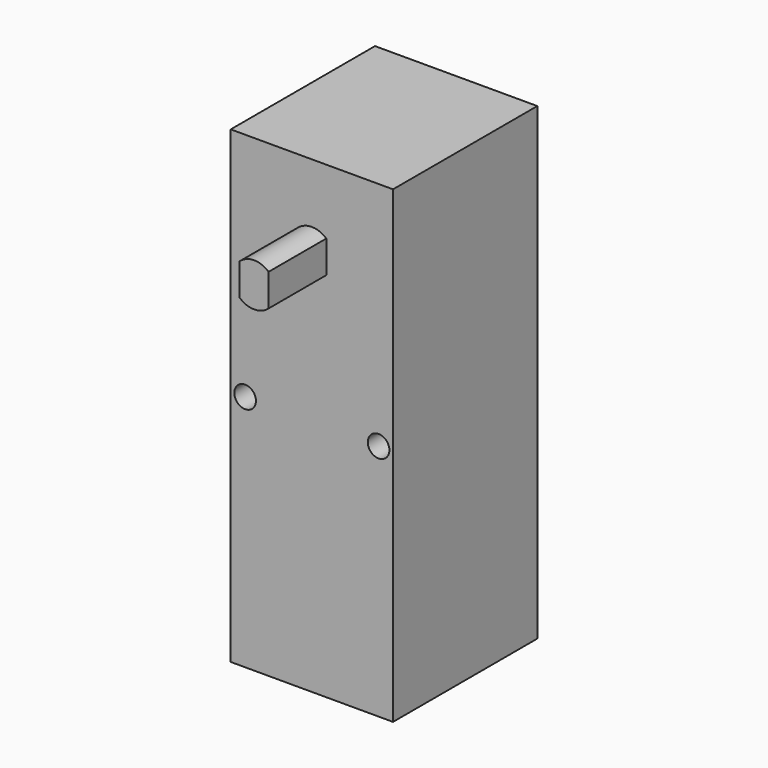
from build123d import *

# Parameters (mm, degrees)
F0_W     = 22.5
F0_H     = 65
F0_R     = 1.5
F1_DEPTH = 25
F3_DEPTH = 10


with BuildPart() as f1:
    # F0 (on Front) → F1 (new body)
    with BuildSketch(Plane.XZ):
        Rectangle(F0_W, F0_H)
        with Locations((-9.25, 0.5)):
            Circle(F0_R, mode=Mode.SUBTRACT)
        with Locations((9.25, 0.5)):
            Circle(F0_R, mode=Mode.SUBTRACT)
    extrude(amount=F1_DEPTH)

    # F2 (on face) → F3 (join)
    with BuildSketch(Plane.XZ.offset(25)):
        with BuildLine():
            Line((-2, 23.486068), (-2, 19.013932))
            ThreePointArc((-2, 19.013932), (0, 18.25), (2, 19.013932))
            Line((2, 19.013932), (2, 23.486068))
            ThreePointArc((2, 23.486068), (0, 24.25), (-2, 23.486068))
        make_face()
    extrude(amount=F3_DEPTH)


solid = f1.part
